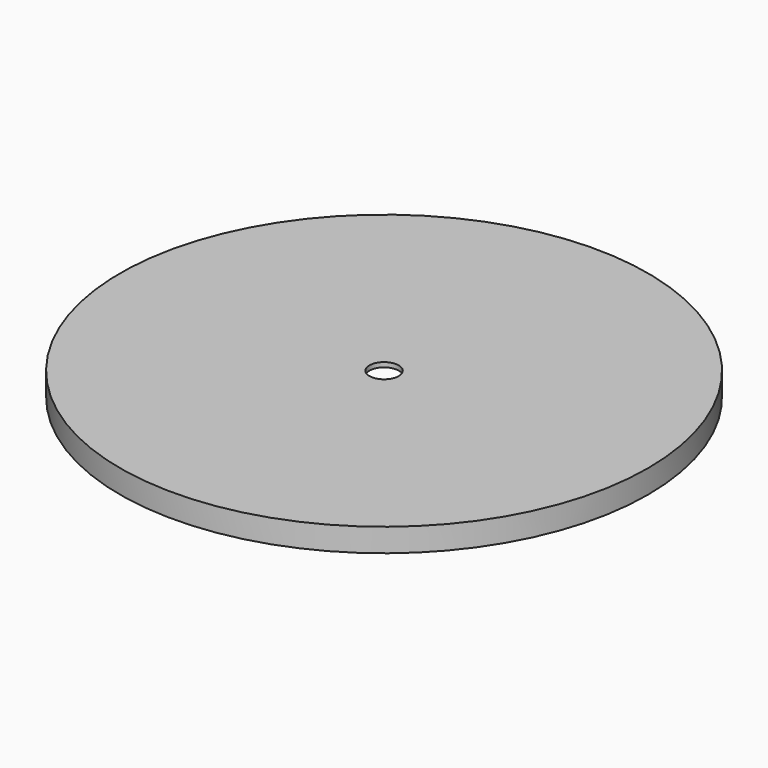
from build123d import *

# Parameters (mm, degrees)
F0_R     = 143.65
F1_DEPTH = 12.7
F2_T     = -2.54
F4_D     = 15.875


with BuildPart() as f1:
    # F0 (on Top) → F1 (new body)
    with BuildSketch(Plane.XY):
        Circle(F0_R)
    extrude(amount=F1_DEPTH)

    # F2
    f2_openings = [f1.faces().sort_by_distance(p)[0] for p in [
        (0, 0, 0),
    ]]
    offset(amount=F2_T, openings=f2_openings)

    # F4 (through all)
    with Locations(Plane.XY.offset(12.7)):
        with Locations((0, 0)):
            Hole(F4_D / 2)


solid = f1.part
